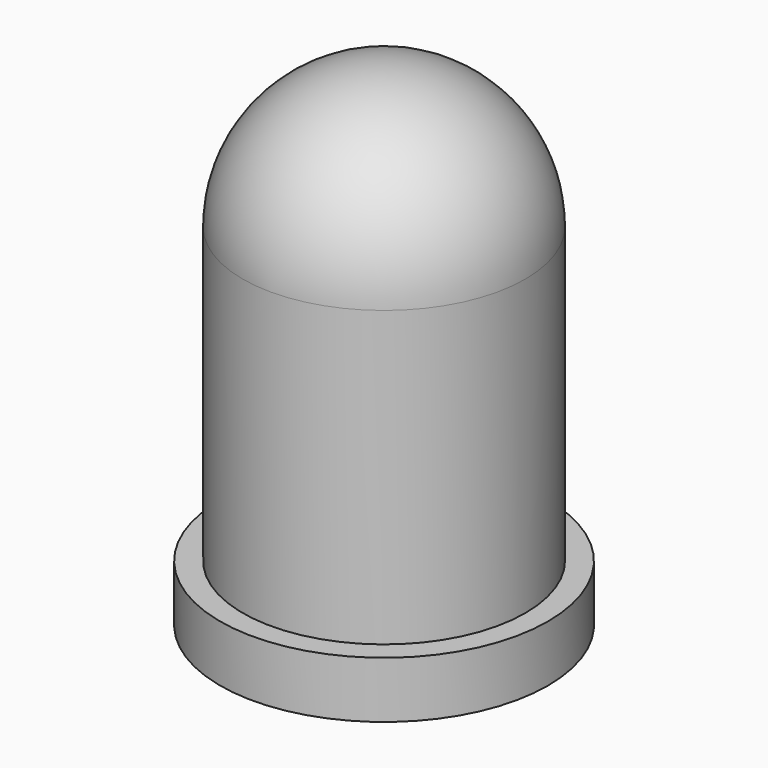
from build123d import *

# Parameters (mm, degrees)
CYLINDER_R        = 2.9
CYLINDER_DEPTH    = 1
SPHERE_ANGLE      = 180
SPHERE_ROLL_ANGLE = 90
CYLINDER001_R     = 2.5
CYLINDER001_DEPTH = 6.2


with BuildPart() as cilindro001:
    # Cylinder → Cylinder (new body)
    with BuildSketch(Plane.XY):
        Circle(CYLINDER_R)
    extrude(amount=CYLINDER_DEPTH)


with BuildPart() as obj1:
    # Sphere → Sphere (revolve)
    with BuildSketch(Plane.XZ):
        with BuildLine():
            ThreePointArc((0, -2.5), (2.5, 0), (0, 2.5))
            Line((0, 2.5), (0, -2.5))
        make_face()
    revolve(axis=Axis((0, 0, 0), (0, 0, 1)), revolution_arc=SPHERE_ANGLE)


with BuildPart() as obj1_1:
    # Sphere roll: moved
    add(obj1.part.rotate(Axis((0, 0, 0), (1, 0, 0)), SPHERE_ROLL_ANGLE))


with BuildPart() as obj1_2:
    # Sphere placement: moved
    add(obj1_1.part.moved(Location((0, 0, 6.2))))


with BuildPart() as funda:
    # Cylinder001 → Cylinder001 (new body)
    with BuildSketch(Plane.XY):
        Circle(CYLINDER001_R)
    extrude(amount=CYLINDER001_DEPTH)

    # Fusion003: union Cilindro001, obj1
    add(cilindro001.part)
    add(obj1_2.part)


with BuildPart() as funda_1:
    # Fusion003 placement: moved
    add(funda.part.moved(Location((6, 2.8, 1))))


solid = funda_1.part
